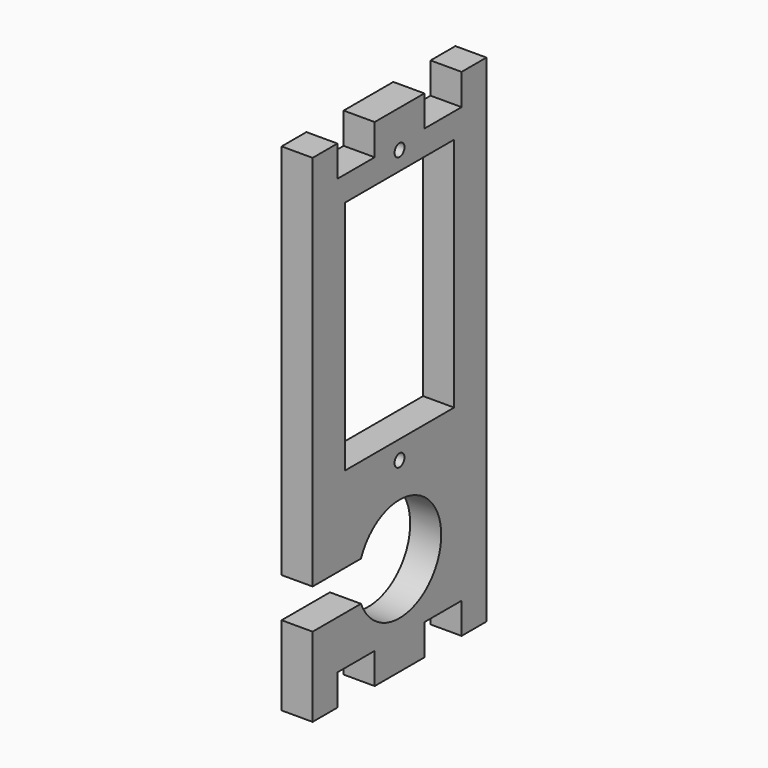
from build123d import *

# Parameters (mm, degrees)
F0_W     = 44.45
F0_H     = 88.9
F1_DEPTH = 6.35
F2_W     = 6.35
F2_H     = 6.35
F2_W_2   = 12.7
F3_DEPTH = 6.35
F4_R     = 10.668
F4_W     = 27.94
F4_H     = 48.26
F4_R_2   = 1.27
F5_DEPTH = 25.4
F6_W     = 12.361424
F6_H     = 8.128
F7_DEPTH = 25.4


with BuildPart() as f1:
    # F0 (on Right) → F1 (new body)
    with BuildSketch(Plane.YZ):
        with Locations((22.225, 44.45)):
            Rectangle(F0_W, F0_H)
    extrude(amount=F1_DEPTH)

    # F2 (on face) → F3 (join)
    with BuildSketch(Plane.YZ.offset(6.35)):
        with Locations((3.175, 92.075)):
            Rectangle(F2_W, F2_H)
        with Locations((3.175, -3.175)):
            Rectangle(F2_W, F2_H)
        with Locations((41.275, 92.075)):
            Rectangle(F2_W, F2_H)
        with Locations((41.275, -3.175)):
            Rectangle(F2_W, F2_H)
        with Locations((22.225, 92.075)):
            Rectangle(F2_W_2, F2_H)
        with Locations((22.225, -3.175)):
            Rectangle(F2_W_2, F2_H)
    extrude(amount=-F3_DEPTH)

    # F4 (on face) → F5 (cut)
    with BuildSketch(Plane.YZ.offset(6.35)):
        with Locations((22.225, 13.97)):
            Circle(F4_R)
        with Locations((22.225, 59.69)):
            Rectangle(F4_W, F4_H)
        with Locations((22.225, 87.63)):
            Circle(F4_R_2)
        with Locations((22.225, 31.75)):
            Circle(F4_R_2)
    extrude(amount=-F5_DEPTH, mode=Mode.SUBTRACT)

    # F6 (on face) → F7 (cut)
    with BuildSketch(Plane.YZ.offset(6.35)):
        with Locations((6.180712, 13.97)):
            Rectangle(F6_W, F6_H)
    extrude(amount=-F7_DEPTH, mode=Mode.SUBTRACT)


solid = f1.part
